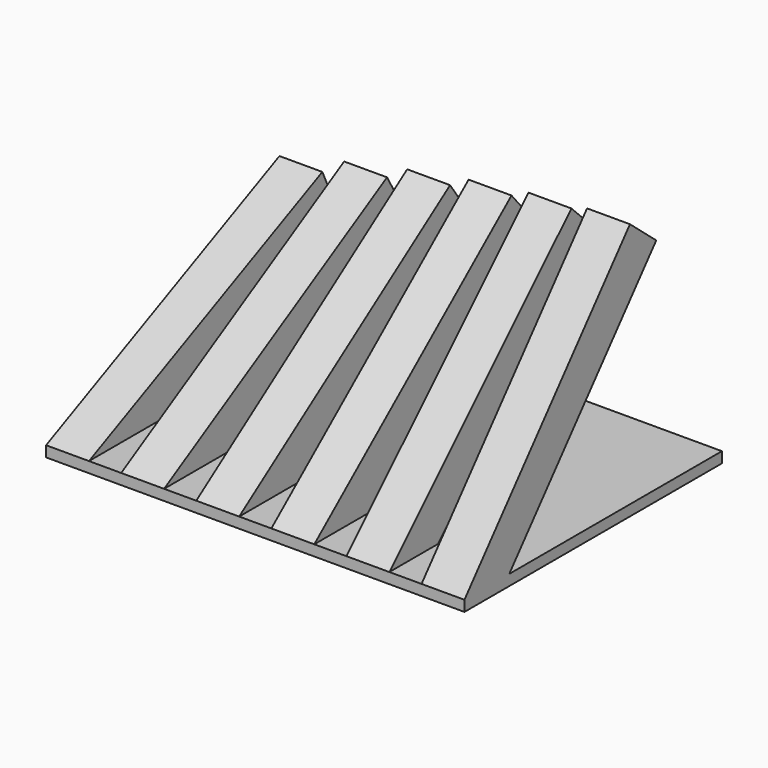
from build123d import *

# Parameters (mm, degrees)
F2_W      = 39
F2_H      = 30
F3_DEPTH  = 1
F5_DEPTH  = 4
F8_DEPTH  = 4
F11_DEPTH = 4
F14_DEPTH = 4
F17_DEPTH = 4
F20_DEPTH = 4


with BuildPart() as f3:
    # F2 (on Top) → F3 (new body)
    with BuildSketch(Plane.XY):
        Rectangle(F2_W, F2_H)
    extrude(amount=F3_DEPTH)

    # F4 (on face) → F5 (join)
    with BuildSketch(Plane(origin=(-19.5, 0, 0), x_dir=(0, -1, 0), z_dir=(-1, 0, 0))):
        Polygon((5.5351936674, 1), (15, 1), (-12.1892336111, 13.6785478522), (-13.8797066581, 10.0533167041), align=None)
    extrude(amount=-F5_DEPTH)

    # F7 (on offset) → F8 (join)
    with BuildSketch(Plane.YZ.offset(-12.5)):
        Polygon((-15, 1), (-7, 1), (12.9807621135, 12.5358983849), (10.9807621135, 16), align=None)
    extrude(amount=F8_DEPTH)

    # F10 (on offset) → F11 (join)
    with BuildSketch(Plane.YZ.offset(-5.5)):
        Polygon((9.5745613287, 18.2072930905), (-15, 1), (-8.0262128175, 1), (11.8688670741, 14.9306849134), align=None)
    extrude(amount=F11_DEPTH)

    # F13 (on offset) → F14 (join)
    with BuildSketch(Plane.YZ.offset(1.5)):
        Polygon((7.9813332936, 20.2836282906), (-15, 1), (-8.7771046926, 1), (10.5524837323, 17.2194505181), align=None)
    extrude(amount=F14_DEPTH)

    # F16 (on offset) → F17 (join)
    with BuildSketch(Plane.YZ.offset(8.5)):
        Polygon((6.2132034356, 22.2132034356), (-15, 1), (-9.3431457505, 1), (9.0416305603, 19.3847763109), align=None)
    extrude(amount=F17_DEPTH)

    # F19 (on offset) → F20 (join)
    with BuildSketch(Plane.YZ.offset(15.5)):
        Polygon((4.2836282906, 23.9813332936), (-15, 1), (-9.7783708427, 1), (7.3478060631, 21.4101828548), align=None)
    extrude(amount=F20_DEPTH)


solid = f3.part
